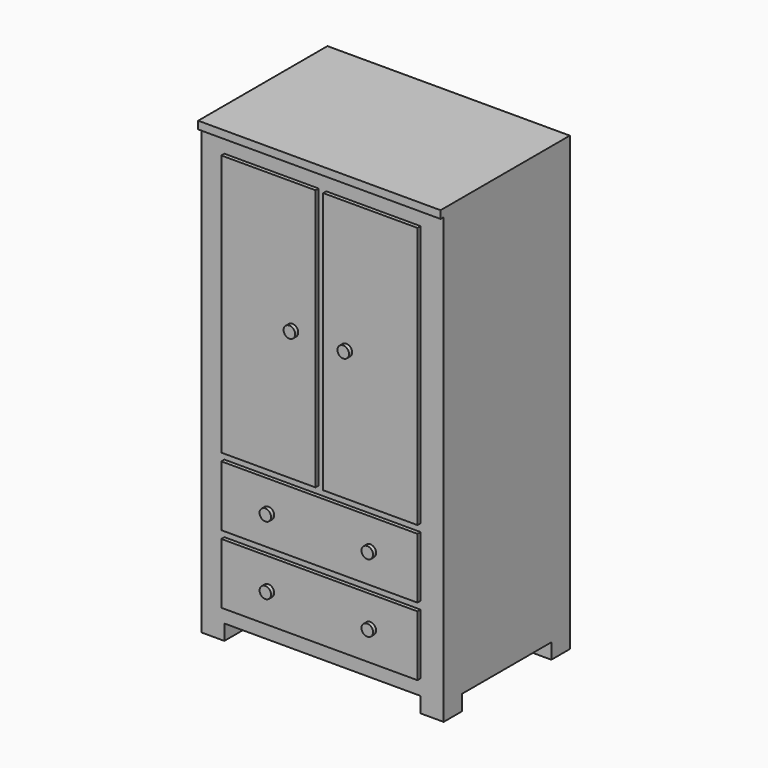
from build123d import *

# Parameters (mm, degrees)
F0_W      = 800.1
F0_H      = 533.4
F1_DEPTH  = 1492.25
F2_W      = 647.7
F2_H      = 200.025
F2_W_2    = 311.15
F2_H_2    = 863.6
F3_DEPTH  = 12.7
F2_H_3    = 50.8
F4_DEPTH  = 533.401
F5_W      = 368.3
F5_H      = 50.8
F6_DEPTH  = 800.101
F7_W      = 596.9
F7_H      = 317.5
F8_DEPTH  = 1371.6
F9_R      = 19.05
F10_DEPTH = 12.7


with BuildPart() as f1:
    # F0 (on Top) → F1 (new body)
    with BuildSketch(Plane.XY):
        Rectangle(F0_W, F0_H)
    extrude(amount=F1_DEPTH)

    # F2 (on face) → F3 (cut)
    with BuildSketch(Plane.XZ.offset(266.7)):
        Polygon((-400.05, 0), (-323.85, 0), (-323.85, 50.8), (323.85, 50.8), (323.85, 0), (400.05, 0), (400.05, 1466.85), (-400.05, 1466.85), align=None)
        with Locations((0, 201.6125)):
            Rectangle(F2_W, F2_H, mode=Mode.SUBTRACT)
        with Locations((0, 427.0375)):
            Rectangle(F2_W, F2_H, mode=Mode.SUBTRACT)
        with Locations((-168.275, 984.25)):
            Rectangle(F2_W_2, F2_H_2, mode=Mode.SUBTRACT)
        with Locations((168.275, 984.25)):
            Rectangle(F2_W_2, F2_H_2, mode=Mode.SUBTRACT)
    extrude(amount=-F3_DEPTH, mode=Mode.SUBTRACT)

    # F2 (on face) → F4 (cut, through all)
    with BuildSketch(Plane.XZ.offset(266.7)):
        with Locations((0, 25.4)):
            Rectangle(F2_W, F2_H_3)
    extrude(amount=-F4_DEPTH, mode=Mode.SUBTRACT)

    # F5 (on face) → F6 (cut, through all)
    with BuildSketch(Plane.YZ.offset(400.05)):
        with Locations((6.35, 25.4)):
            Rectangle(F5_W, F5_H)
    extrude(amount=-F6_DEPTH, mode=Mode.SUBTRACT)

    # F7 (on face) → F8 (cut)
    with BuildSketch(Plane(origin=(0, 0, 50.8), x_dir=(1, 0, 0), z_dir=(0, 0, -1))):
        with Locations((0, -6.35)):
            Rectangle(F7_W, F7_H)
    extrude(amount=-F8_DEPTH, mode=Mode.SUBTRACT)

    # F9 (on face) → F10 (join)
    with BuildSketch(Plane.XZ.offset(266.7)):
        with Locations((-88.9, 984.25)):
            Circle(F9_R)
        with Locations((88.9, 984.25)):
            Circle(F9_R)
        with Locations((168.275, 427.0375)):
            Circle(F9_R)
        with Locations((-168.275, 427.0375)):
            Circle(F9_R)
        with Locations((-168.275, 201.6125)):
            Circle(F9_R)
        with Locations((168.275, 201.6125)):
            Circle(F9_R)
    extrude(amount=F10_DEPTH)


solid = f1.part
